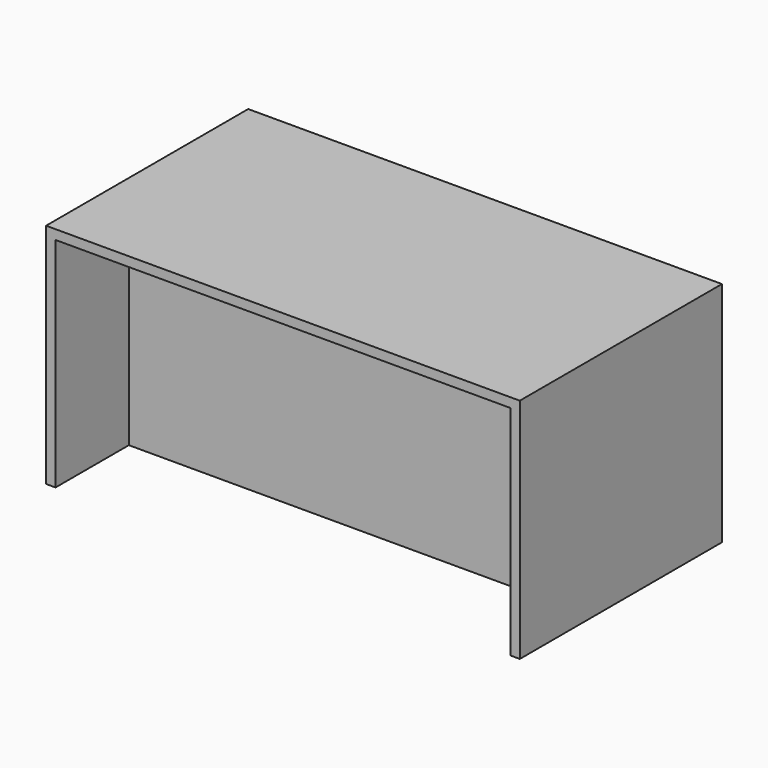
from build123d import *

# Parameters (mm, degrees)
F0_W     = 38.1
F0_H     = 1016
F0_W_2   = 1828.8
F1_DEPTH = 38.1
F2_DEPTH = 876.3
F4_W     = 1828.8
F4_H     = 876.3
F5_DEPTH = 12.7


with BuildPart() as f1:
    # F0 (on Top) → F1 (new body)
    with BuildSketch(Plane.XY):
        with Locations((-933.45, 0)):
            Rectangle(F0_W, F0_H)
        Rectangle(F0_W_2, F0_H)
        with Locations((933.45, 0)):
            Rectangle(F0_W, F0_H)
    extrude(amount=F1_DEPTH)

    # F0 (on Top) → F2 (join)
    with BuildSketch(Plane.XY):
        with Locations((-933.45, 0)):
            Rectangle(F0_W, F0_H)
        with Locations((933.45, 0)):
            Rectangle(F0_W, F0_H)
    extrude(amount=-F2_DEPTH)


with BuildPart() as f5:
    # F4 (on offset) → F5 (new body)
    with BuildSketch(Plane.XZ.offset(127)):
        with Locations((0, -438.15)):
            Rectangle(F4_W, F4_H)
    extrude(amount=F5_DEPTH)


solid = Compound([f1.part, f5.part])
